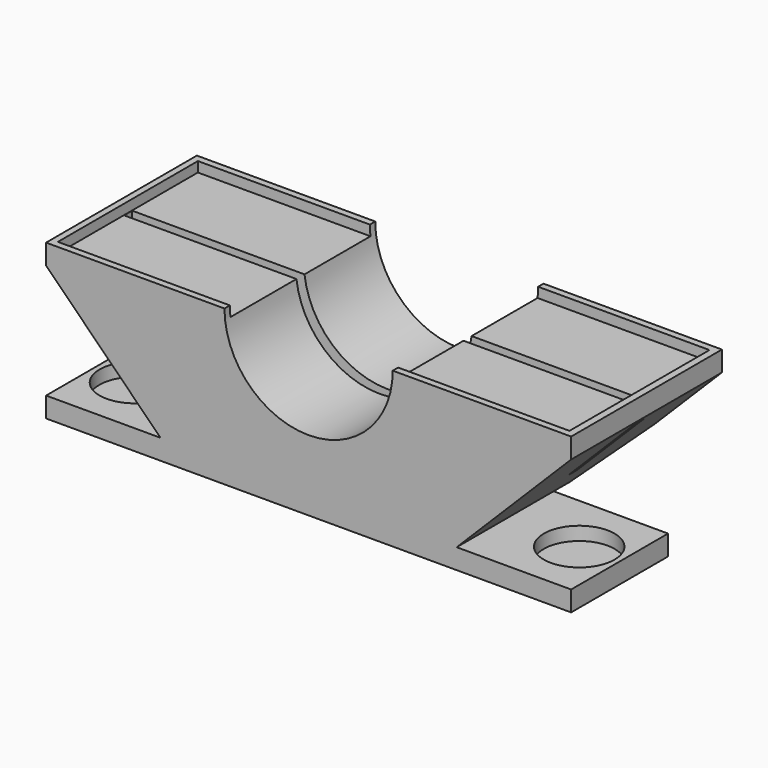
from build123d import *

# Parameters (mm, degrees)
SKETCH071_W            = 78
SKETCH071_H            = 18
PAD022_DEPTH           = 3
SKETCH072_R            = 5.25
POCKET046_DEPTH        = 2
LINEARPATTERN002_COUNT = 2
LINEARPATTERN002_PITCH = 66
SKETCH073_W            = 78
SKETCH073_H            = 28
PAD023_DEPTH           = 20
POCKET050_DEPTH        = 28.001
SKETCH075_W            = 76
SKETCH075_H            = 26
POCKET047_DEPTH        = 1.5
SKETCH076_R            = 12.5
POCKET048_DEPTH        = 28.001
SKETCH077_W            = 76
SKETCH077_H            = 1.5
POCKET049_DEPTH        = 12.5
CHAMFER002_SIZE        = 7


with BuildPart() as part:
    # Sketch071 → Pad022 (new body)
    with BuildSketch(Plane.XY):
        with Locations((0, 29.5)):
            Rectangle(SKETCH071_W, SKETCH071_H)
    extrude(amount=PAD022_DEPTH)

    # Sketch072 (on Face6 of Pad022) → Pocket046 (cut)
    with BuildSketch(Plane.XY.offset(3)):
        with Locations((-33, 29.5)):
            Circle(SKETCH072_R)
    pocket046 = extrude(amount=-POCKET046_DEPTH, mode=Mode.SUBTRACT)

    # LinearPattern002: Pocket046 ×2
    with Locations(*[(i * LINEARPATTERN002_PITCH, 0, 0) for i in range(1, LINEARPATTERN002_COUNT)]):
        add(pocket046, mode=Mode.SUBTRACT)

    # Sketch073 (on Face5 of LinearPattern002) → Pad023 (join)
    with BuildSketch(Plane.XY.offset(3)):
        with Locations((0, 34.5)):
            Rectangle(SKETCH073_W, SKETCH073_H)
    extrude(amount=PAD023_DEPTH)

    # Sketch078 (on Face10 of Pad023) → Pocket050 (cut, through all)
    with BuildSketch(Plane.XZ.offset(-20.5)):
        Polygon((-39, 3), (-22, 3), (-39, 20), align=None)
        Polygon((39, 20), (39, 3), (22, 3), align=None)
    extrude(amount=-POCKET050_DEPTH, mode=Mode.SUBTRACT)

    # Sketch075 (on Face18 of Pocket050) → Pocket047 (cut)
    with BuildSketch(Plane.XY.offset(23)):
        with Locations((-0.049348, 34.5)):
            Rectangle(SKETCH075_W, SKETCH075_H)
    extrude(amount=-POCKET047_DEPTH, mode=Mode.SUBTRACT)

    # Sketch076 (on Face14 of Pocket047) → Pocket048 (cut, through all)
    with BuildSketch(Plane.XZ.offset(-20.5)):
        with Locations((0, 23)):
            Circle(SKETCH076_R)
    extrude(amount=-POCKET048_DEPTH, mode=Mode.SUBTRACT)

    # Sketch077 (on Face27 of Pocket048) → Pocket049 (cut)
    with BuildSketch(Plane.XY.offset(21.5)):
        with Locations((0, 34.5)):
            Rectangle(SKETCH077_W, SKETCH077_H)
    extrude(amount=-POCKET049_DEPTH, mode=Mode.SUBTRACT)

    # Chamfer002
    chamfer002_edges = [part.edges().sort_by_distance(p)[0] for p in [
        (0, 48.5, 3),
    ]]
    chamfer(chamfer002_edges, length=CHAMFER002_SIZE)


with BuildPart() as part_1:
    # Body006 placement: moved
    add(part.part.moved(Location((0, 0, 32))))


solid = part_1.part
